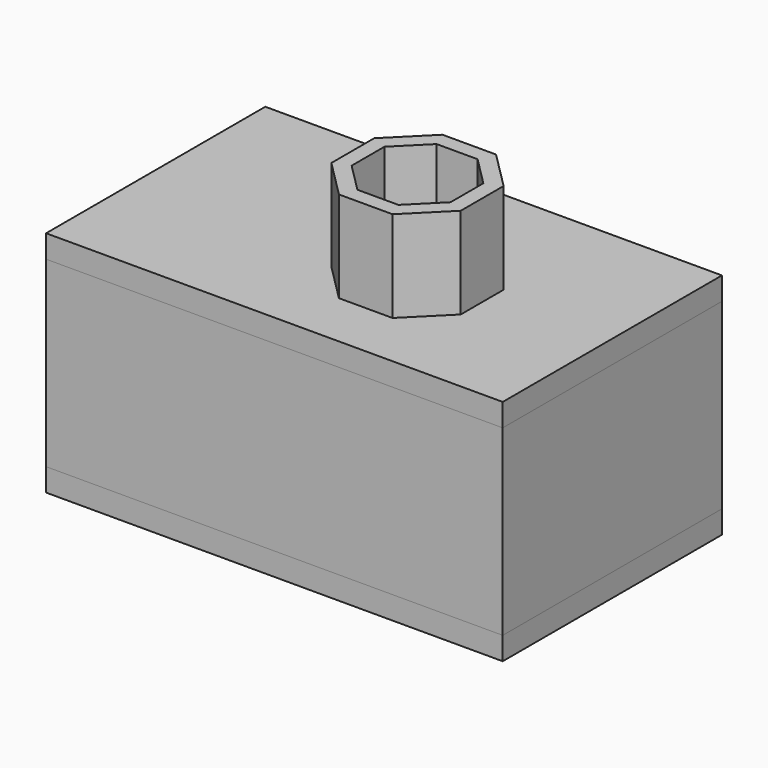
from build123d import *

# Parameters (mm, degrees)
F0_W      = 3000
F0_H      = 1800
F1_DEPTH  = 150
F2_W      = 2940
F2_H      = 1740
F2_W_2    = 2880
F2_H_2    = 1680
F3_DEPTH  = 50
F4_W      = 1660
F4_H      = 1560
F4_W_2    = 1000
F5_DEPTH  = 1200
F6_W      = 3000
F6_H      = 1800
F7_DEPTH  = 150
F8_R      = 57.5
F9_DEPTH  = 390
F10_R     = 57.5
F11_DEPTH = 430
F12_R     = 57.5
F13_DEPTH = 660
F15_DEPTH = 150
F16_DEPTH = 600
F17_W     = 850
F17_H     = 56.9647312164
F18_DEPTH = 100
F20_W     = 1000
F20_H     = 1560
F21_DEPTH = 1015
F19_W     = 1660
F19_H     = 1560
F22_DEPTH = 969


with BuildPart() as f1:
    # F0 (on Top) → F1 (new body)
    with BuildSketch(Plane.XY):
        with Locations((58.586359024, -166.9074058533)):
            Rectangle(F0_W, F0_H)
    extrude(amount=F1_DEPTH)

    # F2 (on face) → F3 (cut)
    with BuildSketch(Plane.XY.offset(150)):
        with Locations((58.586359024, -166.9074058533)):
            Rectangle(F2_W, F2_H)
        with Locations((58.586359024, -166.9074058533)):
            Rectangle(F2_W_2, F2_H_2, mode=Mode.SUBTRACT)
    extrude(amount=-F3_DEPTH, mode=Mode.SUBTRACT)


with BuildPart() as f5:
    # F4 (on face) → F5 (new body)
    with BuildSketch(Plane.XY.offset(150)):
        Polygon((1558.586359024, -1066.9074058533), (1558.586359024, 733.0925941467), (-1441.413640976, 733.0925941467), (-1441.413640976, -1066.9074058533), (338.586359024, -1066.9074058533), align=None)
        with Locations((-491.413640976, -166.9074058533)):
            Rectangle(F4_W, F4_H, mode=Mode.SUBTRACT)
        with Locations((938.586359024, -166.9074058533)):
            Rectangle(F4_W_2, F4_H, mode=Mode.SUBTRACT)
    extrude(amount=F5_DEPTH)

    # F8 (on face) → F9 (cut)
    with BuildSketch(Plane(origin=(0, 733.0925941467, 0), x_dir=(-1, 0, 0), z_dir=(0, 1, 0))):
        with Locations((-984.1946363449, 1280)):
            Circle(F8_R)
    extrude(amount=-F9_DEPTH, mode=Mode.SUBTRACT)

    # F10 (on face) → F11 (cut)
    with BuildSketch(Plane(origin=(338.586359024, 0, 0), x_dir=(0, -1, 0), z_dir=(-1, 0, 0))):
        with Locations((466.9074058533, 1230)):
            Circle(F10_R)
    extrude(amount=-F11_DEPTH, mode=Mode.SUBTRACT)

    # F12 (on face) → F13 (cut)
    with BuildSketch(Plane(origin=(-1441.413640976, 0, 0), x_dir=(0, -1, 0), z_dir=(-1, 0, 0))):
        with Locations((-233.0925941467, 1180)):
            Circle(F12_R)
    extrude(amount=-F13_DEPTH, mode=Mode.SUBTRACT)

    # F17 (on face) → F18 (cut, through all)
    with BuildSketch(Plane(origin=(338.586359024, 0, 0), x_dir=(0, -1, 0), z_dir=(-1, 0, 0))):
        with Locations((266.9074058533, 1321.5176343918)):
            Rectangle(F17_W, F17_H)
    extrude(amount=-F18_DEPTH, mode=Mode.SUBTRACT)


with BuildPart() as f7:
    # F6 (on face) → F7 (new body)
    with BuildSketch(Plane.XY.offset(1350)):
        with Locations((58.586359024, -166.9074058533)):
            Rectangle(F6_W, F6_H)
    extrude(amount=F7_DEPTH)

    # F14 (on face) → F15 (cut, through all)
    with BuildSketch(Plane.XY.offset(1500)):
        Polygon((33.586359024, -132.287998082), (33.586359024, -401.5268136245), (223.9669512528, -591.9074058533), (493.2057667953, -591.9074058533), (683.586359024, -401.5268136245), (683.586359024, -132.287998082), (493.2057667953, 58.0925941467), (223.9669512528, 58.0925941467), align=None)
    extrude(amount=-F15_DEPTH, mode=Mode.SUBTRACT)


with BuildPart() as f16:
    # F14 (on face) → F16 (new body)
    with BuildSketch(Plane.XY.offset(1500)):
        Polygon((182.5455950155, 158.0925941467), (-66.413640976, -90.8666418447), (-66.413640976, -442.9481698618), (182.5455950155, -691.9074058533), (534.6271230326, -691.9074058533), (783.586359024, -442.9481698618), (783.586359024, -90.8666418447), (534.6271230326, 158.0925941467), align=None)
        Polygon((223.9669512528, -591.9074058533), (33.586359024, -401.5268136245), (33.586359024, -132.287998082), (223.9669512528, 58.0925941467), (493.2057667953, 58.0925941467), (683.586359024, -132.287998082), (683.586359024, -401.5268136245), (493.2057667953, -591.9074058533), align=None, mode=Mode.SUBTRACT)
    extrude(amount=F16_DEPTH)


with BuildPart() as f21:
    # F20 (on face) → F21 (new body)
    with BuildSketch(Plane.XY.offset(150)):
        with Locations((938.586359024, -166.9074058533)):
            Rectangle(F20_W, F20_H)
    extrude(amount=F21_DEPTH)


with BuildPart() as f22:
    # F19 (on face) → F22 (new body)
    with BuildSketch(Plane.XY.offset(150)):
        with Locations((-491.413640976, -166.9074058533)):
            Rectangle(F19_W, F19_H)
    extrude(amount=F22_DEPTH)


solid = Compound([f1.part, f5.part, f7.part, f16.part, f21.part, f22.part])
